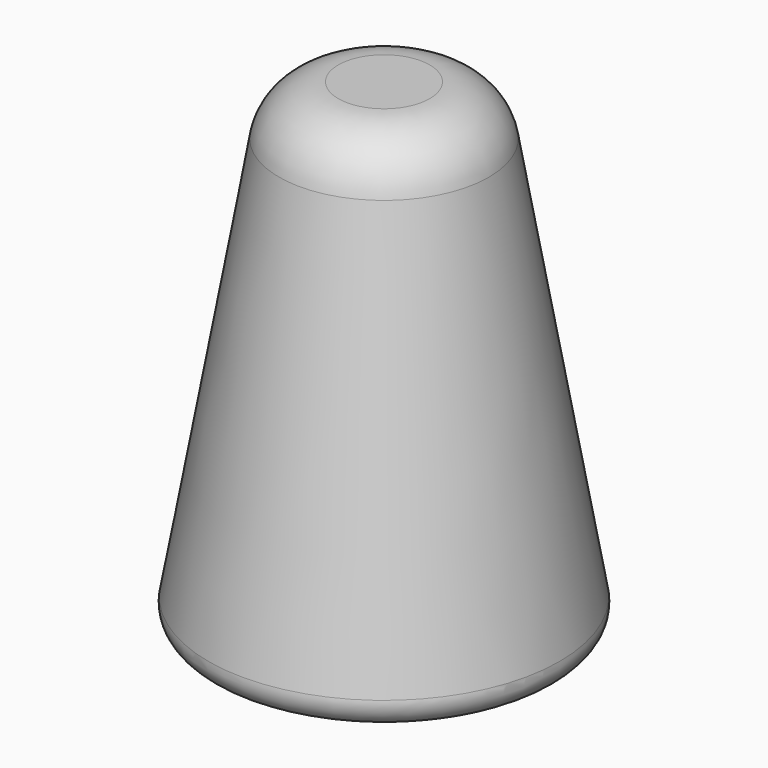
from build123d import *

# Parameters (mm, degrees)
FILLET014_R = 2
FILLET015_R = 5


with BuildPart() as part:
    # Cone014 → Cone014 (revolve)
    with BuildSketch(Plane(origin=(10, -18, 16), x_dir=(1, 0, 0), z_dir=(0, -1, 0))):
        Polygon((0, 0), (15, 0), (8, 40), (0, 40), align=None)
    revolve(axis=Axis((10, -18, 16), (0, 0, 1)))

    # Fillet014
    fillet014_edges = [part.edges().sort_by_distance(p)[0] for p in [
        (-5, -18, 16),
    ]]
    fillet(fillet014_edges, radius=FILLET014_R)


with BuildPart() as part_1:
    # Fillet014 placement: moved
    add(part.part.moved(Location((0, 0, 14))))

    # Fillet015
    fillet015_edges = [part_1.edges().sort_by_distance(p)[0] for p in [
        (2, -18, 70),
    ]]
    fillet(fillet015_edges, radius=FILLET015_R)


with BuildPart() as part_2:
    # Fillet015 placement: moved
    add(part_1.part.moved(Location((-1, 0, 0))))


solid = part_2.part
